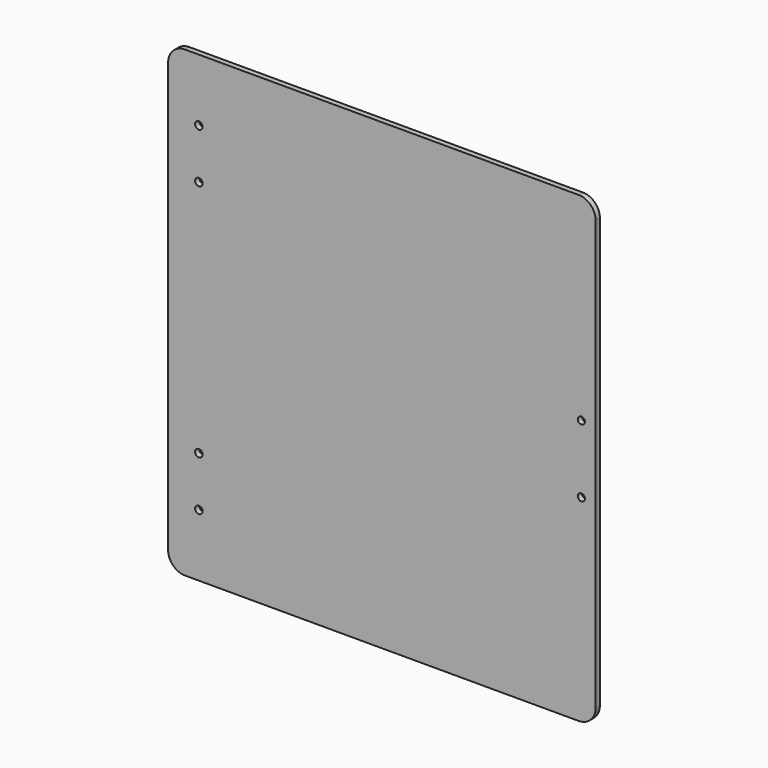
from build123d import *

# Parameters (mm, degrees)
SKETCH_W        = 240
SKETCH_H        = 260
PAD_DEPTH       = 3
SKETCH001_R     = 2.1
POCKET_DEPTH    = 5
FILLET_R        = 9.5
SKETCH002_R     = 2
POCKET001_DEPTH = 3.001


with BuildPart() as part:
    # Sketch → Pad (new body)
    with BuildSketch(Plane.XZ):
        with Locations((120, 130)):
            Rectangle(SKETCH_W, SKETCH_H)
    extrude(amount=PAD_DEPTH)

    # Sketch001 (on Face6 of Pad) → Pocket (cut)
    with BuildSketch(Plane.XZ.offset(3)):
        with Locations((17.25, 225)):
            Circle(SKETCH001_R)
        with Locations((17.25, 197)):
            Circle(SKETCH001_R)
        with Locations((17.25, 63)):
            Circle(SKETCH001_R)
        with Locations((17.25, 35)):
            Circle(SKETCH001_R)
    extrude(amount=-POCKET_DEPTH, mode=Mode.SUBTRACT)

    # Fillet
    fillet_edges = [part.edges().sort_by_distance(p)[0] for p in [
        (0, -1.5, 260),
        (240, -1.5, 260),
        (240, -1.5, 0),
        (0, -1.5, 0),
    ]]
    fillet(fillet_edges, radius=FILLET_R)

    # Sketch002 (on Face5 of Fillet) → Pocket001 (cut, through all)
    with BuildSketch(Plane.XZ.offset(3)):
        with Locations((232, 149)):
            Circle(SKETCH002_R)
        with Locations((232, 111)):
            Circle(SKETCH002_R)
    extrude(amount=-POCKET001_DEPTH, mode=Mode.SUBTRACT)


solid = part.part
